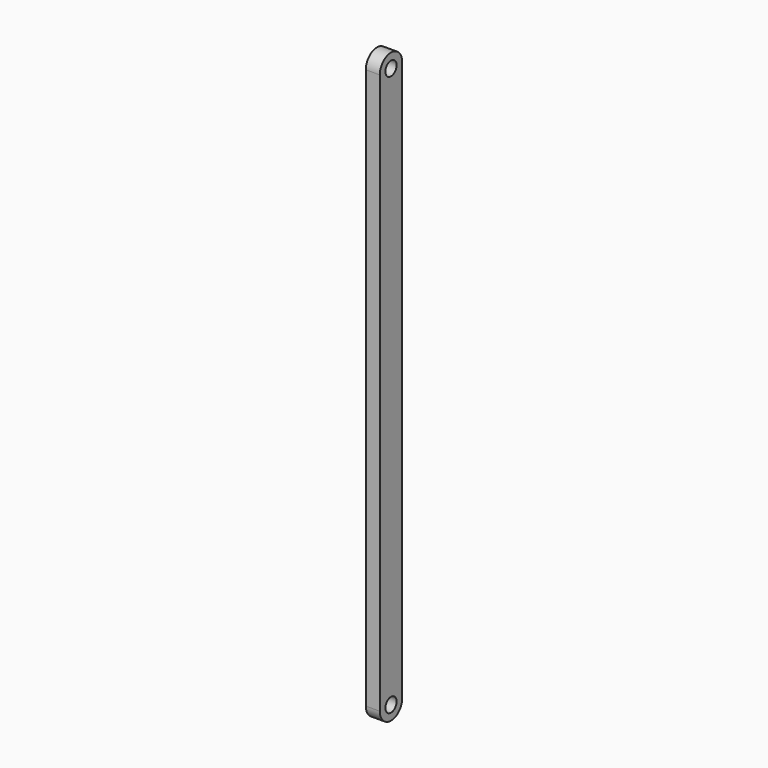
from build123d import *

# Parameters (mm, degrees)
F0_R     = 3.175
F1_DEPTH = 6.35


with BuildPart() as f1:
    # F0 (on Right) → F1 (new body)
    with BuildSketch(Plane.YZ):
        with BuildLine():
            Line((6.35, 0), (6.35, 254))
            ThreePointArc((6.35, 254), (0, 260.35), (-6.35, 254))
            Line((-6.35, 254), (-6.35, 0))
            ThreePointArc((-6.35, 0), (0, -6.35), (6.35, 0))
        make_face()
        Circle(F0_R, mode=Mode.SUBTRACT)
        with Locations((0, 254)):
            Circle(F0_R, mode=Mode.SUBTRACT)
    extrude(amount=F1_DEPTH)


solid = f1.part
